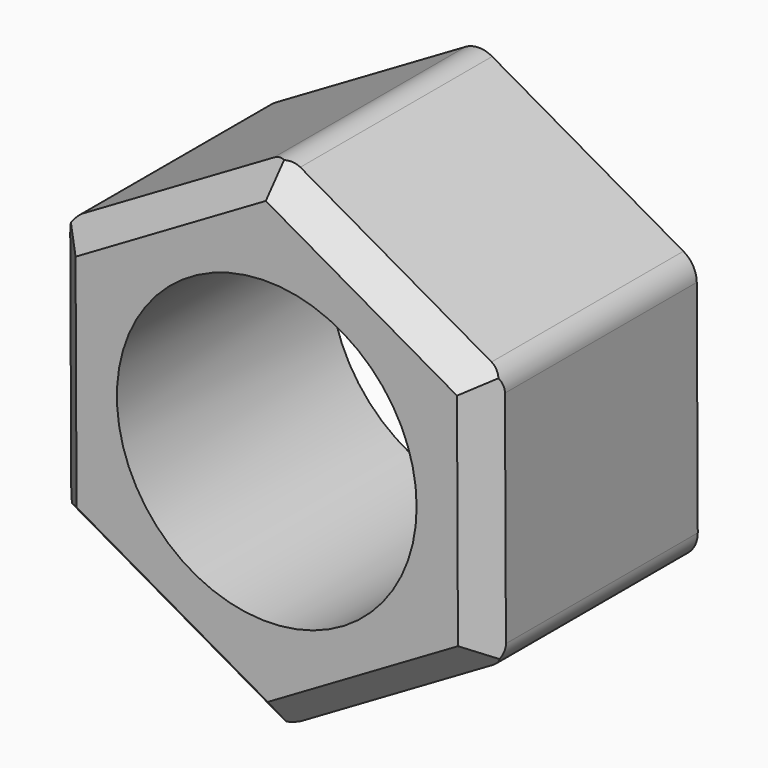
from build123d import *

# Parameters (mm, degrees)
F0_R     = 14.2875
F1_DEPTH = 25.4
F2_SIZE  = 2.54
F3_R     = 2.54


with BuildPart() as f1:
    # F0 (on Front) → F1 (new body)
    with BuildSketch(Plane.XZ):
        Polygon((20.667777, 12.055561), (-0.106534, 23.9266), (-20.774311, 11.871039), (-20.667777, -12.055561), (0.106534, -23.9266), (20.774311, -11.871039), align=None)
        Circle(F0_R, mode=Mode.SUBTRACT)
    extrude(amount=F1_DEPTH)

    # F2
    f2_edges = [f1.edges().sort_by_distance(p)[0] for p in [
        (-10.440422, -25.4, 17.89882),
        (-20.721044, -25.4, -0.092261),
        (-10.280621, -25.4, -17.991081),
        (10.440422, -25.4, -17.89882),
        (20.721044, -25.4, 0.092261),
        (10.280621, -25.4, 17.991081),
    ]]
    chamfer(f2_edges, length=F2_SIZE)

    # F3
    f3_edges = [f1.edges().sort_by_distance(p)[0] for p in [
        (-20.774311, -11.43, 11.871039),
        (-0.106534, -11.43, 23.9266),
        (-20.667777, -11.43, -12.055561),
        (0.106534, -11.43, -23.9266),
        (20.774311, -11.43, -11.871039),
        (20.667777, -11.43, 12.055561),
    ]]
    fillet(f3_edges, radius=F3_R)


solid = f1.part
